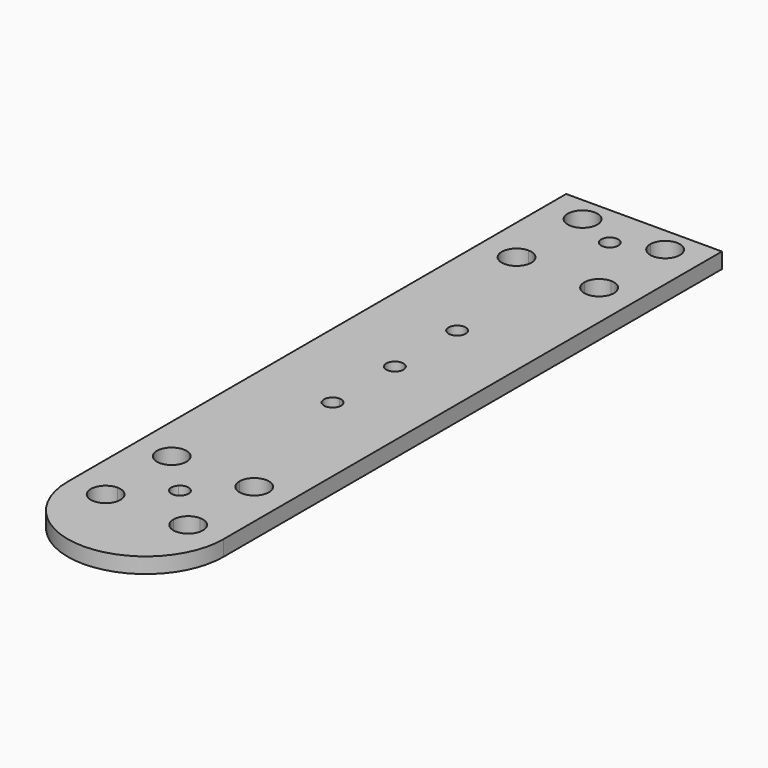
from build123d import *

# Parameters (mm, degrees)
F0_W     = 25.4
F0_H     = 52.7300323124
F1_DEPTH = 2.54
F2_R     = 1.397
F3_DEPTH = 2.541
F5_DEPTH = 25.4


with BuildPart() as f1:
    # F0 (on Top) → F1 (new body)
    with BuildSketch(Plane.XY):
        with Locations((0, 24.4349838438)):
            Rectangle(F0_W, F0_H)
        with BuildLine():
            Line((4.318, 33.2232), (-4.318, 33.2232))
            ThreePointArc((-4.318, 33.2232), (-8.437248663, 31.516951337), (-6.731, 35.6362))
            Line((-6.731, 35.6362), (-6.731, 44.2722))
            ThreePointArc((-6.731, 44.2722), (-8.437248663, 48.391448663), (-4.318, 46.6852))
            Line((-4.318, 46.6852), (4.318, 46.6852))
            ThreePointArc((4.318, 46.6852), (6.731, 49.0982), (9.144, 46.6852))
            ThreePointArc((9.144, 46.6852), (8.437248663, 44.978951337), (6.731, 44.2722))
            Line((6.731, 44.2722), (6.731, 35.6362))
            ThreePointArc((6.731, 35.6362), (8.437248663, 34.929448663), (9.144, 33.2232))
            ThreePointArc((9.144, 33.2232), (6.731, 30.8102), (4.318, 33.2232))
        make_face(mode=Mode.SUBTRACT)
        with BuildLine():
            Line((12.7, -50.8), (12.7, -1.9300323124))
            Line((12.7, -1.9300323124), (-12.7, -1.9300323124))
            Line((-12.7, -1.9300323124), (-12.7, -50.8))
            ThreePointArc((-12.7, -50.8), (0, -63.5), (12.7, -50.8))
        make_face()
        with BuildLine():
            Line((4.318, -50.5452646249), (-4.318, -50.5452646249))
            ThreePointArc((-4.318, -50.5452646249), (-8.437248663, -52.2515132879), (-6.731, -48.1322646249))
            Line((-6.731, -48.1322646249), (-6.731, -39.4962646249))
            ThreePointArc((-6.731, -39.4962646249), (-8.437248663, -35.3770159619), (-4.318, -37.0832646249))
            Line((-4.318, -37.0832646249), (4.318, -37.0832646249))
            ThreePointArc((4.318, -37.0832646249), (6.731, -34.6702646249), (9.144, -37.0832646249))
            ThreePointArc((9.144, -37.0832646249), (8.437248663, -38.7895132879), (6.731, -39.4962646249))
            Line((6.731, -39.4962646249), (6.731, -48.1322646249))
            ThreePointArc((6.731, -48.1322646249), (8.437248663, -48.8390159619), (9.144, -50.5452646249))
            ThreePointArc((9.144, -50.5452646249), (6.731, -52.9582646249), (4.318, -50.5452646249))
        make_face(mode=Mode.SUBTRACT)
        with BuildLine():
            ThreePointArc((-6.731, -48.1322646249), (-5.024751337, -48.8390159619), (-4.318, -50.5452646249))
            Line((-4.318, -50.5452646249), (4.318, -50.5452646249))
            ThreePointArc((4.318, -50.5452646249), (5.024751337, -48.8390159619), (6.731, -48.1322646249))
            Line((6.731, -48.1322646249), (6.731, -39.4962646249))
            ThreePointArc((6.731, -39.4962646249), (5.024751337, -38.7895132879), (4.318, -37.0832646249))
            Line((4.318, -37.0832646249), (-4.318, -37.0832646249))
            ThreePointArc((-4.318, -37.0832646249), (-5.024751337, -38.7895132879), (-6.731, -39.4962646249))
            Line((-6.731, -39.4962646249), (-6.731, -48.1322646249))
        make_face()
        with BuildLine():
            ThreePointArc((-6.731, 35.6362), (-5.024751337, 34.929448663), (-4.318, 33.2232))
            Line((-4.318, 33.2232), (4.318, 33.2232))
            ThreePointArc((4.318, 33.2232), (5.024751337, 34.929448663), (6.731, 35.6362))
            Line((6.731, 35.6362), (6.731, 44.2722))
            ThreePointArc((6.731, 44.2722), (5.024751337, 44.978951337), (4.318, 46.6852))
            Line((4.318, 46.6852), (-4.318, 46.6852))
            ThreePointArc((-4.318, 46.6852), (-5.024751337, 44.978951337), (-6.731, 44.2722))
            Line((-6.731, 44.2722), (-6.731, 35.6362))
        make_face()
    extrude(amount=F1_DEPTH)

    # F2 (on face) → F3 (cut, through all)
    with BuildSketch(Plane.XY.offset(2.54)):
        with BuildLine():
            Line((-1.397, 0), (1.397, 0))
            ThreePointArc((1.397, 0), (0, 1.397), (-1.397, 0))
        make_face()
        with BuildLine():
            ThreePointArc((-1.397, 0), (0, -1.397), (1.397, 0))
            Line((1.397, 0), (-1.397, 0))
        make_face()
        with BuildLine():
            ThreePointArc((0.9878281733, -42.8264364516), (0, -42.4172646249), (-0.9878281733, -42.8264364516))
            Line((-0.9878281733, -42.8264364516), (0, -43.8142646249))
            Line((0, -43.8142646249), (0.9878281733, -42.8264364516))
        make_face()
        with BuildLine():
            Line((0, -43.8142646249), (-0.9878281733, -42.8264364516))
            ThreePointArc((-0.9878281733, -42.8264364516), (-1.397, -43.8142646249), (-0.9878281733, -44.8020927982))
            Line((-0.9878281733, -44.8020927982), (0, -43.8142646249))
        make_face()
        with BuildLine():
            Line((0.9878281733, -42.8264364516), (0, -43.8142646249))
            Line((0, -43.8142646249), (0.9878281733, -44.8020927982))
            ThreePointArc((0.9878281733, -44.8020927982), (1.2906597069, -44.3488733799), (1.397, -43.8142646249))
            ThreePointArc((1.397, -43.8142646249), (1.2906597069, -43.2796558699), (0.9878281733, -42.8264364516))
        make_face()
        with BuildLine():
            Line((0.9878281733, -44.8020927982), (0, -43.8142646249))
            Line((0, -43.8142646249), (-0.9878281733, -44.8020927982))
            ThreePointArc((-0.9878281733, -44.8020927982), (0, -45.2112646249), (0.9878281733, -44.8020927982))
        make_face()
        with Locations((0, 43.8142646249)):
            Circle(F2_R)
    extrude(amount=-F3_DEPTH, mode=Mode.SUBTRACT)

    # F4 (on face) → F5 (cut)
    with BuildSketch(Plane.XY.offset(2.54)):
        with BuildLine():
            ThreePointArc((1.397, 12.7), (-0.9878281733, 13.6878281733), (0, 11.303))
            ThreePointArc((0, 11.303), (0.9878281733, 11.7121718267), (1.397, 12.7))
        make_face()
        with BuildLine():
            ThreePointArc((1.397, -12.7), (0.9878281733, -11.7121718267), (0, -11.303))
            ThreePointArc((0, -11.303), (-0.9878281733, -13.6878281733), (1.397, -12.7))
        make_face()
    extrude(amount=-F5_DEPTH, mode=Mode.SUBTRACT)


solid = f1.part
